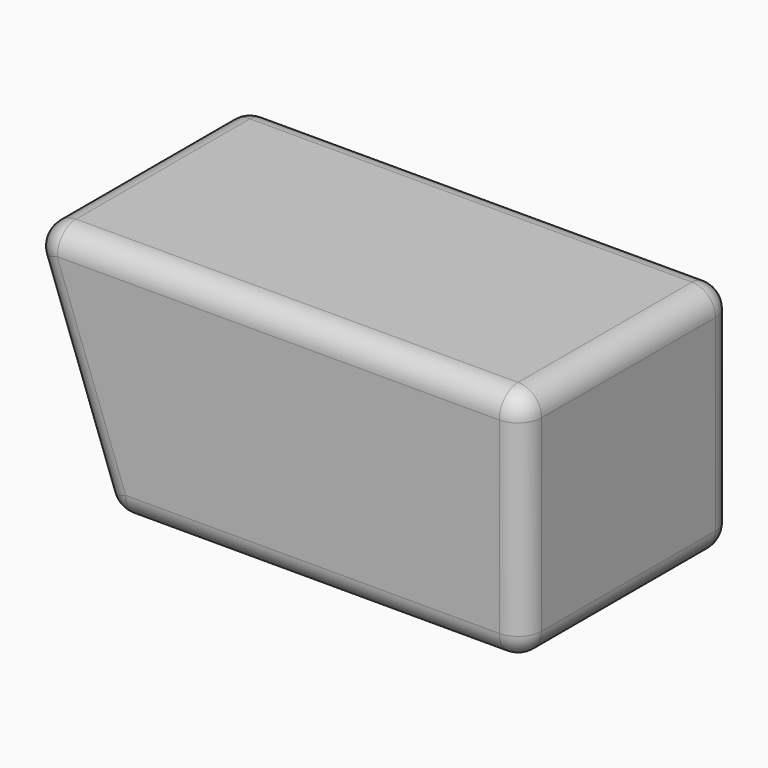
from build123d import *

# Parameters (mm, degrees)
F1_DEPTH = 225
F2_R     = 40


with BuildPart() as f1:
    # F0 (on Front) → F1 (new body, symmetric)
    with BuildSketch(Plane.XZ):
        Polygon((0, 400), (145.588094, 0), (850, 0), (850, 400), align=None)
    extrude(amount=F1_DEPTH, both=True)

    # F2
    f2_edges = [f1.edges().sort_by_distance(p)[0] for p in [
        (497.794047, -225, 0),
        (145.588094, 0, 0),
        (497.794047, 225, 0),
        (850, 0, 0),
        (72.794047, -225, 200),
        (850, 225, 200),
        (850, 0, 400),
        (850, -225, 200),
        (425, 225, 400),
        (0, 0, 400),
        (425, -225, 400),
        (72.794047, 225, 200),
    ]]
    fillet(f2_edges, radius=F2_R)


solid = f1.part
